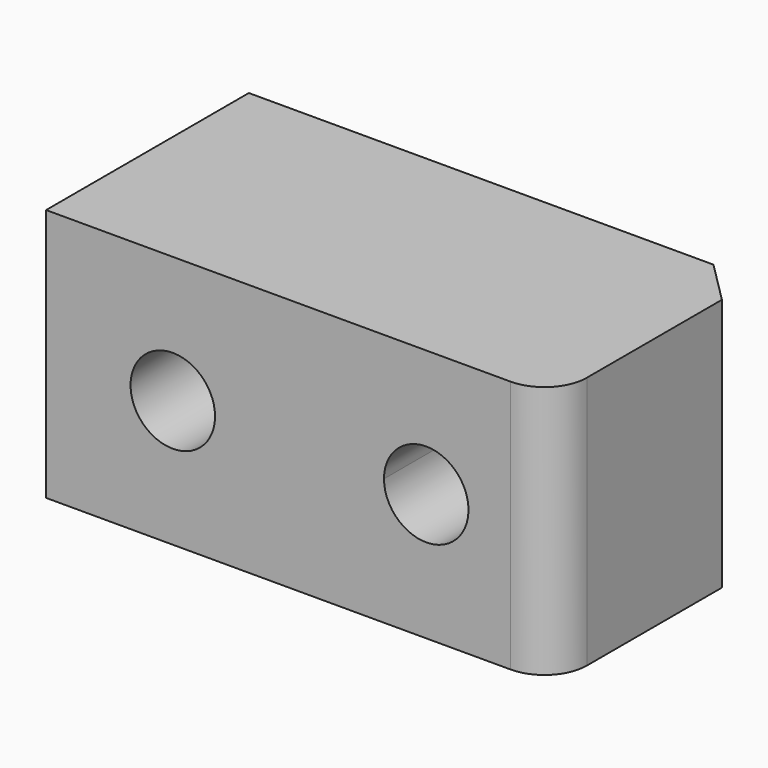
from build123d import *

# Parameters (mm, degrees)
F0_W     = 30
F0_H     = 30
F1_DEPTH = 30
F3_DEPTH = 30.001
F5_R     = 5
F6_SIZE  = 5


with BuildPart() as f1:
    # F0 (on Top) → F1 (new body)
    with BuildSketch(Plane.XY):
        Rectangle(F0_W, F0_H)
    extrude(amount=F1_DEPTH)

    # F2 (on face) → F3 (cut, through all)
    with BuildSketch(Plane.XZ.offset(15)):
        with BuildLine():
            ThreePointArc((0, 20), (-3.5355339059, 11.4644660941), (5, 15))
            ThreePointArc((5, 15), (3.5355339059, 18.5355339059), (0, 20))
        make_face()
    extrude(amount=-F3_DEPTH, mode=Mode.SUBTRACT)

    # F4: F1 across face


with BuildPart() as f1_1:
    add(f1.part)
    add(f1.part.mirror(Plane(origin=(15, 0, 15), x_dir=(0, 1, 0), z_dir=(1, 0, 0))))

    # F5
    f5_edges = [f1_1.edges().sort_by_distance(p)[0] for p in [
        (45, -15, 15),
    ]]
    fillet(f5_edges, radius=F5_R)

    # F6
    f6_edges = [f1_1.edges().sort_by_distance(p)[0] for p in [
        (45, 15, 15),
    ]]
    chamfer(f6_edges, length=F6_SIZE)


solid = f1_1.part
